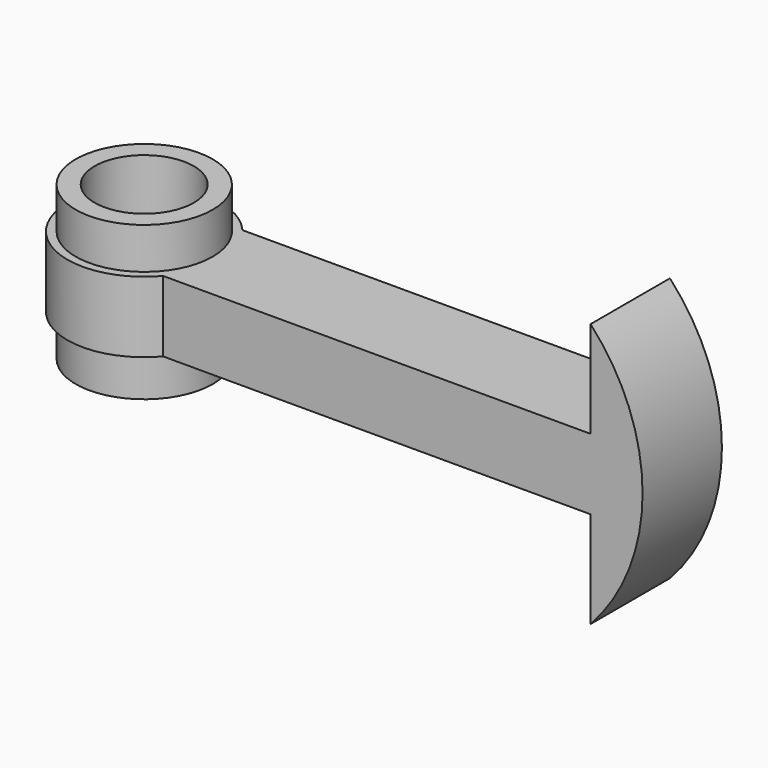
from build123d import *

# Parameters (mm, degrees)
F0_R      = 2.1
F1_DEPTH  = 3
F2_W      = 7.8759681508
F2_H      = 2.3975596942
F2_H_2    = 2.4024403058
F3_DEPTH  = 25
F2_H_3    = 4.2
F4_DEPTH  = 5
F5_DEPTH  = 8
F7_DEPTH  = 25
F8_R      = 2.9
F8_R_2    = 2.1
F9_DEPTH  = 1.75
F10_R     = 2.9
F10_R_2   = 2.1
F11_DEPTH = 1.75


with BuildPart() as f1:
    # F0 (on Top) → F1 (new body)
    with BuildSketch(Plane.XY):
        Polygon((18.7982146922, 10.5015123645), (10.9222465414, 10.5015123645), (10.9222465414, 8.1039526702), (10.9222465414, 3.9039526702), (10.9222465414, 1.5015123645), (18.7982146922, 1.5015123645), align=None)
        with BuildLine():
            Line((10.9222465414, 3.9039526702), (10.9222465414, 8.1039526702))
            Line((10.9222465414, 8.1039526702), (-7.1777534586, 8.1039526702))
            ThreePointArc((-7.1777534586, 8.1039526702), (-12.9081768095, 6.0039526702), (-7.1777534586, 3.9039526702))
            Line((-7.1777534586, 3.9039526702), (10.9222465414, 3.9039526702))
        make_face()
        with Locations((-9.6581768095, 6.0039526702)):
            Circle(F0_R, mode=Mode.SUBTRACT)
    extrude(amount=F1_DEPTH)

    # F2 (on face) → F3 (cut)
    with BuildSketch(Plane.XY.offset(3)):
        with Locations((14.8602306168, 9.3027325174)):
            Rectangle(F2_W, F2_H)
        with Locations((14.8602306168, 2.7027325174)):
            Rectangle(F2_W, F2_H_2)
    extrude(amount=-F3_DEPTH, mode=Mode.SUBTRACT)

    # F2 (on face) → F4 (join)
    with BuildSketch(Plane.XY.offset(3)):
        with Locations((14.8602306168, 6.0039526702)):
            Rectangle(F2_W, F2_H_3)
    extrude(amount=F4_DEPTH)

    # F2 (on face) → F5 (join)
    with BuildSketch(Plane.XY.offset(3)):
        with Locations((14.8602306168, 6.0039526702)):
            Rectangle(F2_W, F2_H_3)
    extrude(amount=-F5_DEPTH)

    # F6 (on face) → F7 (cut)
    with BuildSketch(Plane(origin=(0, 8.1039526702, 0), x_dir=(-1, 0, 0), z_dir=(0, 1, 0))):
        with BuildLine():
            ThreePointArc((-10.9222465414, -4.0903488442), (-13.1232466414, 1.5), (-10.9222465414, 7.0903488442))
            Line((-10.9222465414, 7.0903488442), (-10.9222465414, 8))
            Line((-10.9222465414, 8), (-18.7982146922, 8))
            Line((-18.7982146922, 8), (-18.7982146922, -5))
            Line((-18.7982146922, -5), (-10.9222465414, -5))
            Line((-10.9222465414, -5), (-10.9222465414, -4.0903488442))
        make_face()
    extrude(amount=-F7_DEPTH, mode=Mode.SUBTRACT)

    # F8 (on face) → F9 (join)
    with BuildSketch(Plane(origin=(0, 0, 0), x_dir=(1, 0, 0), z_dir=(0, 0, -1))):
        with Locations((-9.6581768095, -6.0039526702)):
            Circle(F8_R)
        with Locations((-9.6581768095, -6.0039526702)):
            Circle(F8_R_2, mode=Mode.SUBTRACT)
    extrude(amount=F9_DEPTH)

    # F10 (on face) → F11 (join)
    with BuildSketch(Plane.XY.offset(3)):
        with Locations((-9.6581768095, 6.0039526702)):
            Circle(F10_R)
        with Locations((-9.6581768095, 6.0039526702)):
            Circle(F10_R_2, mode=Mode.SUBTRACT)
    extrude(amount=F11_DEPTH)


solid = f1.part
